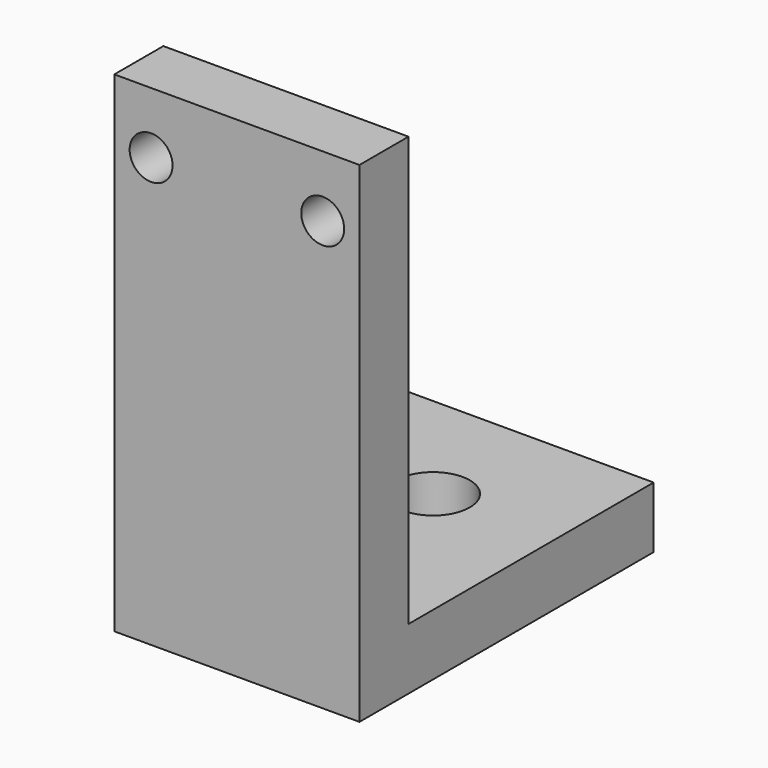
from build123d import *

# Parameters (mm, degrees)
F0_W     = 20
F0_H     = 40
F0_R     = 1.75
F1_DEPTH = 5
F2_W     = 20
F2_H     = 30
F2_R     = 3
F3_DEPTH = 5


with BuildPart() as f1:
    # F0 (on Front) → F1 (new body)
    with BuildSketch(Plane.XZ):
        Rectangle(F0_W, F0_H)
        with Locations((-7, 15)):
            Circle(F0_R, mode=Mode.SUBTRACT)
        with Locations((7, 15)):
            Circle(F0_R, mode=Mode.SUBTRACT)
    extrude(amount=F1_DEPTH)

    # F2 (on face) → F3 (join)
    with BuildSketch(Plane(origin=(0, 0, -20), x_dir=(1, 0, 0), z_dir=(0, 0, -1))):
        with Locations((0, -10)):
            Rectangle(F2_W, F2_H)
        with Locations((0, -15)):
            Circle(F2_R, mode=Mode.SUBTRACT)
    extrude(amount=-F3_DEPTH)


solid = f1.part
